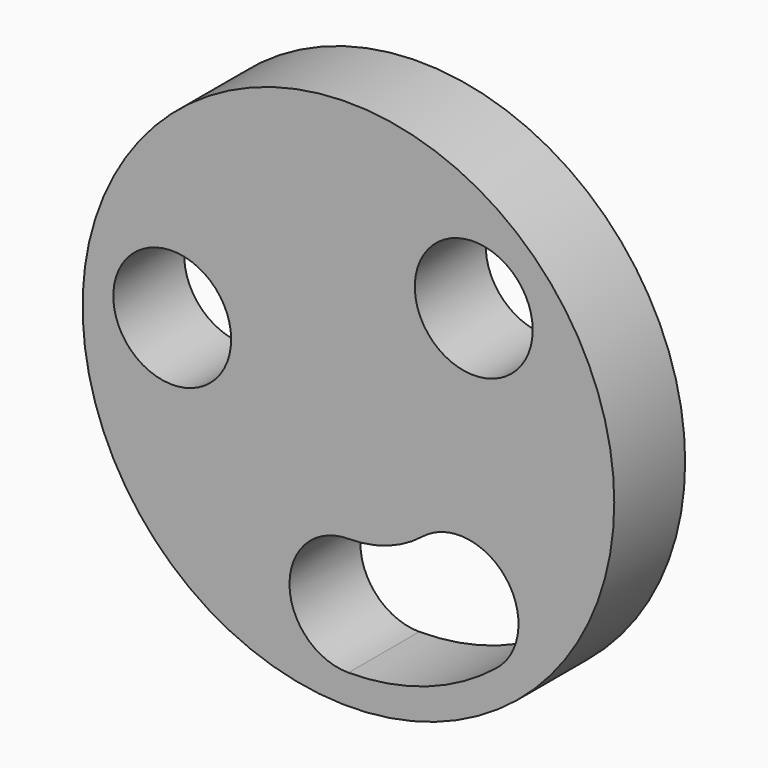
from build123d import *

# Parameters (mm, degrees)
F0_R     = 76.2
F1_DEPTH = 25.4
F3_R     = 16.891
F4_DEPTH = 25.4


with BuildPart() as f1:
    # F0 (on Front) → F1 (new body)
    with BuildSketch(Plane.XZ):
        Circle(F0_R)
    extrude(amount=F1_DEPTH)

    # F3 (on face) → F4 (cut)
    with BuildSketch(Plane.XZ.offset(25.4)):
        with Locations((35.921024, 35.921024)):
            Circle(F3_R)
        with BuildLine():
            ThreePointArc((21.266493, -26.411296), (11.274742, -31.979688), (0, -33.909))
            ThreePointArc((0, -33.909), (-16.891, -50.8), (0, -67.691))
            ThreePointArc((0, -67.691), (22.507258, -63.839602), (42.453336, -52.723674))
            ThreePointArc((42.453336, -52.723674), (45.016103, -28.974064), (21.266493, -26.411296))
        make_face()
        with Locations((-50.506798, 5.450076)):
            Circle(F3_R)
    extrude(amount=-F4_DEPTH, mode=Mode.SUBTRACT)


solid = f1.part
